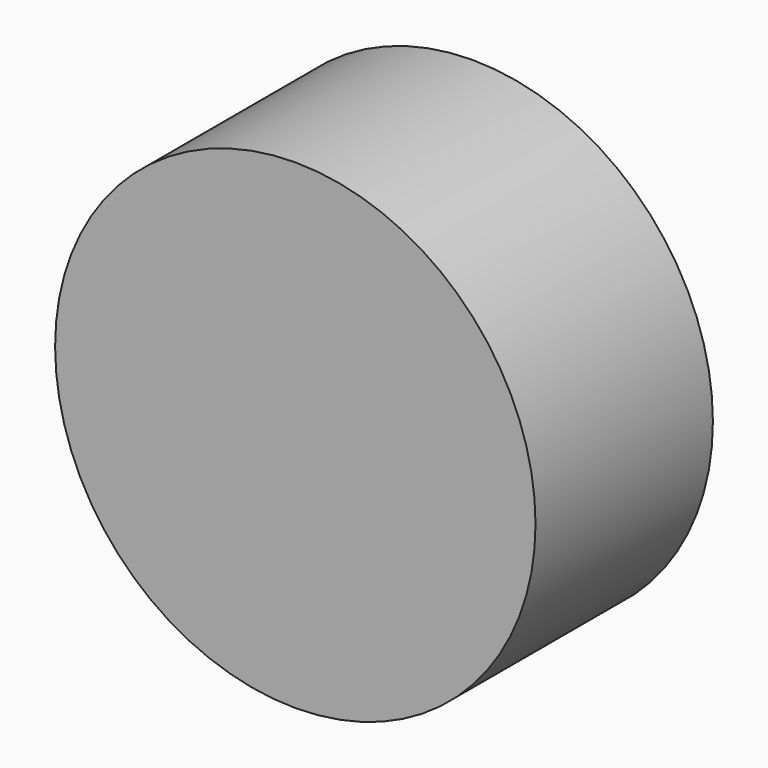
from build123d import *

# Parameters (mm, degrees)
F0_R     = 13
F0_R_2   = 11.5
F1_DEPTH = 6
F2_DEPTH = 6
F3_R     = 1
F4_DEPTH = 5


with BuildPart() as f1:
    # F0 (on Front) → F1 (new body, symmetric)
    with BuildSketch(Plane.XZ):
        Circle(F0_R)
        Circle(F0_R_2, mode=Mode.SUBTRACT)
    extrude(amount=F1_DEPTH, both=True)

    # F0 (on Front) → F2 (join, symmetric)
    with BuildSketch(Plane.XZ):
        Circle(F0_R_2)
    extrude(amount=F2_DEPTH, both=True)

    # F3 (on face) → F4 (join)
    with BuildSketch(Plane(origin=(0, 6, 0), x_dir=(-1, 0, 0), z_dir=(0, 1, 0))):
        Circle(F3_R)
    extrude(amount=F4_DEPTH)


solid = f1.part
